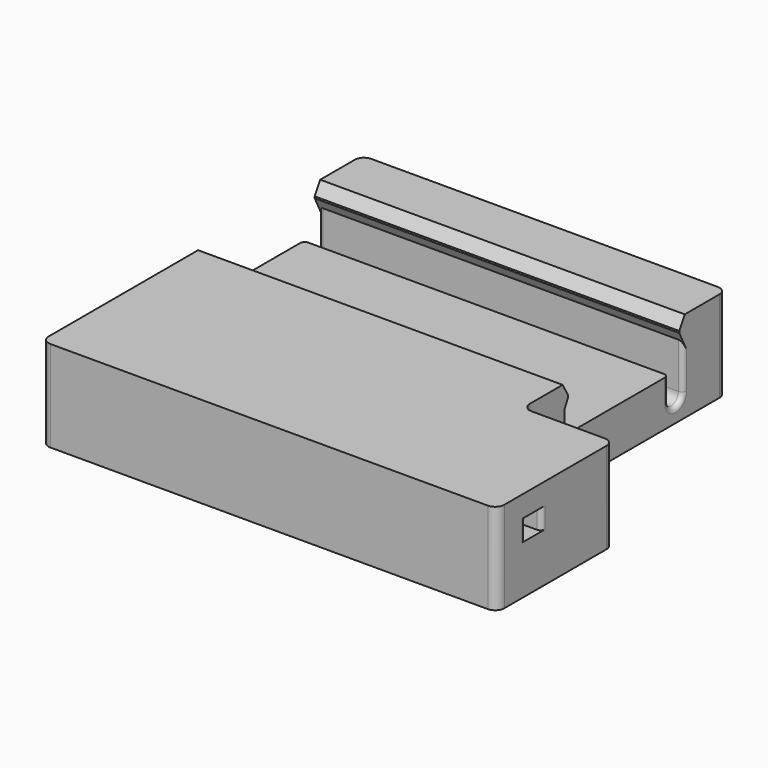
from build123d import *

# Parameters (mm, degrees)
SKETCH_W        = 50
SKETCH_H        = 44
PAD_DEPTH       = 5
SKETCH001_W     = 2.2
SKETCH001_H     = 2.3
POCKET_DEPTH    = 50.001
POCKET002_DEPTH = 50.001
SKETCH002_W     = 10
SKETCH002_H     = 28
POCKET001_DEPTH = 10.001
FILLET_R        = 1
FILLET001_R     = 0.5
CHAMFER_1_ANGLE = 30
CHAMFER_1_SIZE  = 1.3
CHAMFER_2_ANGLE = 30
CHAMFER_2_SIZE  = 1.3


with BuildPart() as part:
    # Sketch (on XY_Plane of Origin) → Pad (new body, symmetric)
    with BuildSketch(Plane.XY):
        Rectangle(SKETCH_W, SKETCH_H)
    extrude(amount=PAD_DEPTH, both=True)

    # Sketch001 (on Face2 of Pad) → Pocket (cut, through all)
    with BuildSketch(Plane.YZ.offset(25)):
        Polygon((0.25, 5), (0.25, 3.5), (-0.25, 2.5), (-0.25, 0), (16, 0), (16, 2.5), (15.5, 3.5), (15.5, 5), align=None)
        with Locations((-17, 1.5)):
            Rectangle(SKETCH001_W, SKETCH001_H)
    extrude(amount=-POCKET_DEPTH, mode=Mode.SUBTRACT)

    # Sketch003 (on Face3 of Pocket) → Pocket002 (cut, through all)
    with BuildSketch(Plane.YZ.offset(25)):
        with BuildLine():
            ThreePointArc((16, 0), (15, 1), (14, 0))
            Line((14, 0), (14, -2.5))
            ThreePointArc((14, -2.5), (15, -3.5), (16, -2.5))
            Line((16, 0), (16, -2.5))
        make_face()
    extrude(amount=-POCKET002_DEPTH, mode=Mode.SUBTRACT)

    # Sketch002 (on Face4 of Pocket) → Pocket001 (cut, through all)
    with BuildSketch(Plane(origin=(0, 0, -5), x_dir=(1, 0, 0), z_dir=(0, 0, -1))):
        with Locations((20, -8)):
            Rectangle(SKETCH002_W, SKETCH002_H)
    extrude(amount=-POCKET001_DEPTH, mode=Mode.SUBTRACT)

    # Fillet
    fillet_edges = [part.edges().sort_by_distance(p)[0] for p in [
        (25, -22, 0),
        (25, -6, 0),
        (-25, -22, 0),
        (15, 22, 0),
        (15, -6, 0),
        (-25, 22, 0),
    ]]
    fillet(fillet_edges, radius=FILLET_R)

    # Fillet001
    fillet001_edges = [part.edges().sort_by_distance(p)[0] for p in [
        (-25, -15.9, 1.5),
        (-25, -18.1, 1.5),
        (25, -15.9, 1.5),
        (25, -18.1, 1.5),
        (15, 14, -1.25),
        (-25, 14, -1.25),
    ]]
    fillet(fillet001_edges, radius=FILLET001_R)

    # Chamfer 1
    chamfer_1_edges = [part.edges().sort_by_distance(p)[0] for p in [
        (-5, 15.5, 5),
    ]]
    chamfer_1_side = part.faces().sort_by_distance((-5, 15.5, 4.25))[0]
    chamfer(chamfer_1_edges, length=CHAMFER_1_SIZE, angle=CHAMFER_1_ANGLE, reference=chamfer_1_side)

    # Chamfer 2
    chamfer_2_edges = [part.edges().sort_by_distance(p)[0] for p in [
        (-5, 0.25, 5),
    ]]
    chamfer_2_side = part.faces().sort_by_distance((-5, 0.25, 4.25))[0]
    chamfer(chamfer_2_edges, length=CHAMFER_2_SIZE, angle=CHAMFER_2_ANGLE, reference=chamfer_2_side)


solid = part.part
